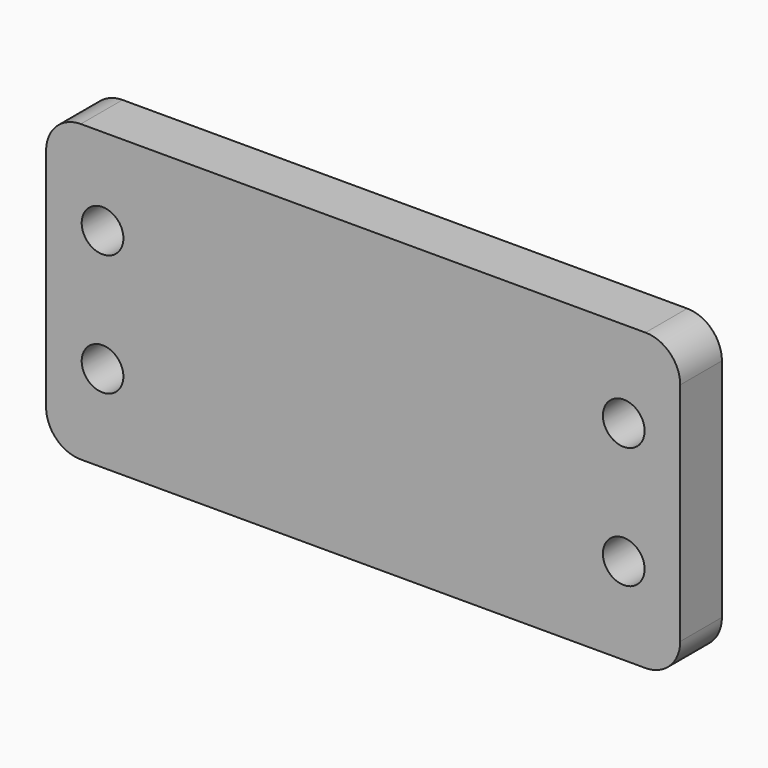
from build123d import *

# Parameters (mm, degrees)
CYLINDER015_R     = 1.2
CYLINDER015_DEPTH = 10
CYLINDER016_R     = 1.2
CYLINDER016_DEPTH = 10
CYLINDER012_R     = 1.2
CYLINDER012_DEPTH = 10
CYLINDER014_R     = 1.2
CYLINDER014_DEPTH = 10
BOX007_W          = 36.5
BOX007_H          = 3
BOX007_DEPTH      = 17
FILLET008_R       = 2


with BuildPart() as m2s002:
    # Cylinder015 → Cylinder015 (new body)
    with BuildSketch(Plane.XZ):
        Circle(CYLINDER015_R)
    extrude(amount=CYLINDER015_DEPTH)


with BuildPart() as fusion018:
    # Cylinder016 → Cylinder016 (new body)
    with BuildSketch(Plane(origin=(30, 0, 0), x_dir=(1, 0, 0), z_dir=(0, -1, 0))):
        Circle(CYLINDER016_R)
    extrude(amount=CYLINDER016_DEPTH)

    # Fusion018: union m2s002
    add(m2s002.part)


with BuildPart() as fusion018_1:
    # Fusion018 placement: moved
    add(fusion018.part.moved(Location((3.25, 0, 7))))


with BuildPart() as m2s:
    # Cylinder012 → Cylinder012 (new body)
    with BuildSketch(Plane.XZ):
        Circle(CYLINDER012_R)
    extrude(amount=CYLINDER012_DEPTH)


with BuildPart() as fusion019:
    # Cylinder014 → Cylinder014 (new body)
    with BuildSketch(Plane(origin=(30, 0, 0), x_dir=(1, 0, 0), z_dir=(0, -1, 0))):
        Circle(CYLINDER014_R)
    extrude(amount=CYLINDER014_DEPTH)

    # Fusion017: union m2s
    add(m2s.part)


with BuildPart() as fusion019_1:
    # Fusion017 placement: moved
    add(fusion019.part.moved(Location((3.25, 0, 0))))

    # Fusion019: union Fusion018
    add(fusion018_1.part)


with BuildPart() as fusion019_2:
    # Fusion019 placement: moved
    add(fusion019_1.part.moved(Location((0, 3, 5))))


with BuildPart() as convertersupport:
    # Box007 → Box007 (new body)
    with BuildSketch(Plane.XY):
        with Locations((18.25, 1.5)):
            Rectangle(BOX007_W, BOX007_H)
    extrude(amount=BOX007_DEPTH)

    # Cut003: cut Fusion019
    add(fusion019_2.part, mode=Mode.SUBTRACT)

    # Fillet008
    fillet008_edges = [convertersupport.edges().sort_by_distance(p)[0] for p in [
        (0, 1.5, 17),
        (0, 1.5, 0),
        (36.5, 1.5, 17),
        (36.5, 1.5, 0),
    ]]
    fillet(fillet008_edges, radius=FILLET008_R)


with BuildPart() as convertersupport_1:
    # Fillet008 placement: moved
    add(convertersupport.part.moved(Location((-63, 5, -120))))


solid = convertersupport_1.part
